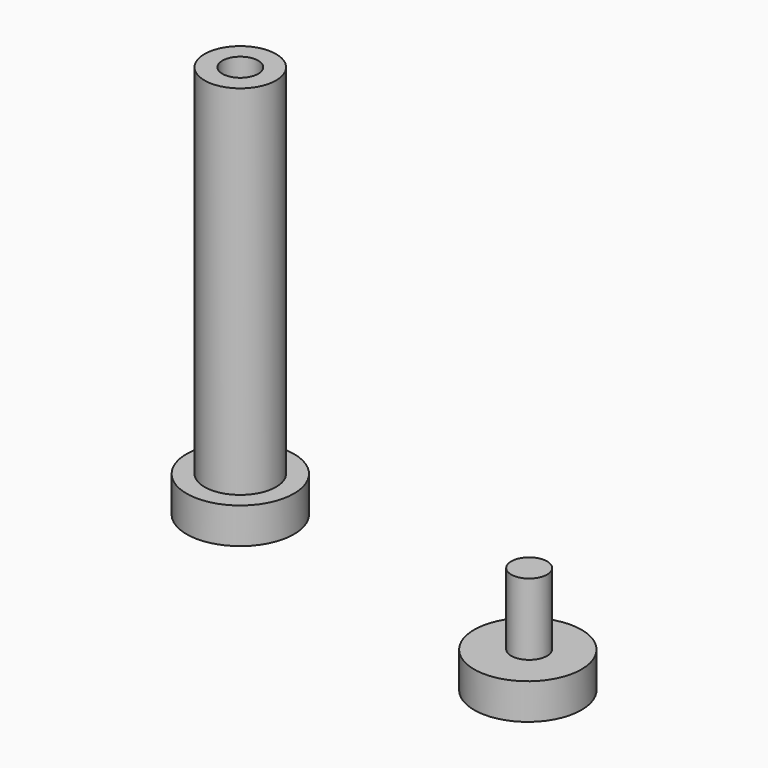
from build123d import *

# Parameters (mm, degrees)
F0_R     = 3.81
F1_DEPTH = 2.54
F2_R     = 1.274241
F3_DEPTH = 5.08
F4_R     = 2.54
F5_DEPTH = 25.4
F6_R     = 1.27
F7_DEPTH = 5.715


with BuildPart() as f1:
    # F0 (on Top) → F1 (new body)
    with BuildSketch(Plane.XY):
        with Locations((12.830512, 1.430729)):
            Circle(F0_R)
        with Locations((-12.79066, 7.94989)):
            Circle(F0_R)
    extrude(amount=F1_DEPTH)

    # F4 (on face) → F5 (join)
    with BuildSketch(Plane.XY.offset(2.54)):
        with Locations((-12.79066, 7.94989)):
            Circle(F4_R)
    extrude(amount=F5_DEPTH)

    # F6 (on face) → F7 (cut)
    with BuildSketch(Plane.XY.offset(27.94)):
        with Locations((-12.79066, 7.94989)):
            Circle(F6_R)
    extrude(amount=-F7_DEPTH, mode=Mode.SUBTRACT)


with BuildPart() as f3:
    # F2 (on face) → F3 (new body)
    with BuildSketch(Plane.XY.offset(2.54)):
        with Locations((12.866688, 1.503748)):
            Circle(F2_R)
    extrude(amount=F3_DEPTH)


solid = Compound([f1.part, f3.part])
